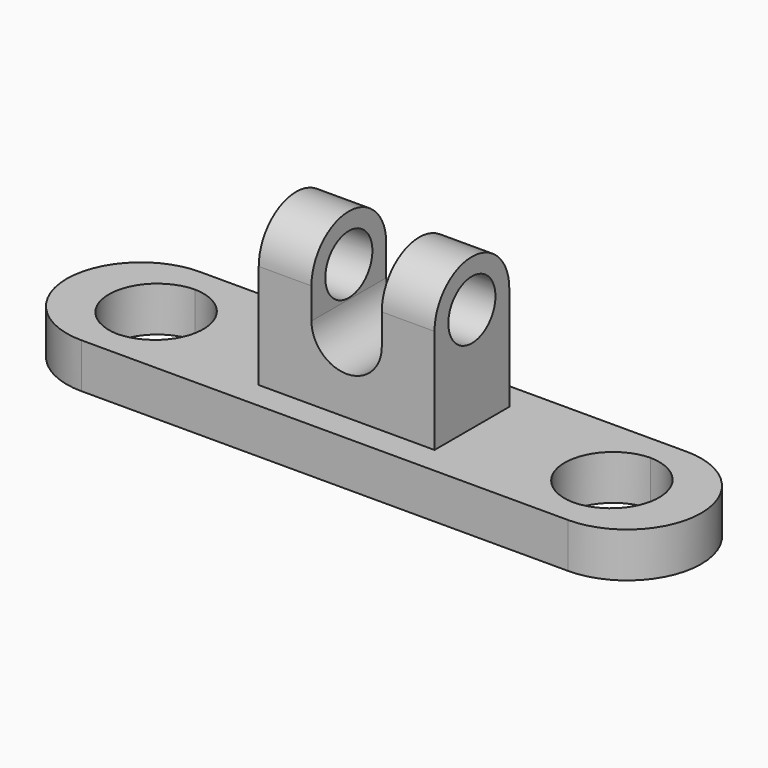
from build123d import *

# Parameters (mm, degrees)
F1_DEPTH  = 12.954
F3_D      = 27.94
F3_DEPTH  = 20.32
F5_DEPTH  = 25.4
F8_DEPTH  = 34.919414
F9_R      = 8.513263
F10_DEPTH = 117.073686


with BuildPart() as f1:
    # F0 (on Top) → F1 (new body)
    with BuildSketch(Plane.XY):
        with BuildLine():
            Line((70.253901, 21.234231), (70.253901, 21.401851))
            Line((70.253901, 21.401851), (-70.253901, 21.401851))
            Line((-70.253901, 21.401851), (-70.253901, 21.418785))
            ThreePointArc((-70.253901, 21.418785), (-91.672686, 0), (-70.253901, -21.418785))
            Line((-70.253901, -21.418785), (-70.253901, -21.401851))
            Line((-70.253901, -21.401851), (70.253901, -21.401851))
            Line((70.253901, -21.401851), (70.253901, -21.234231))
            ThreePointArc((70.253901, -21.234231), (91.488132, 0), (70.253901, 21.234231))
        make_face()
    extrude(amount=F1_DEPTH)

    # F3
    with Locations(Plane(origin=(0, 0, 0), x_dir=(1, 0, 0), z_dir=(0, 0, -1))):
        with Locations((-65.522589, 0), (66.181116, 0)):
            Hole(F3_D / 2, depth=F3_DEPTH)

    # F4 (on Right) → F5 (join)
    with BuildSketch(Plane.YZ):
        with BuildLine():
            Line((-13.499629, 7.572964), (13.499629, 7.572964))
            Line((13.499629, 7.572964), (13.499629, 43.132961))
            ThreePointArc((13.499629, 43.132961), (0, 56.63259), (-13.499629, 43.132961))
            Line((-13.499629, 43.132961), (-13.499629, 7.572964))
        make_face()
    extrude(amount=F5_DEPTH)

    # F6: F1 across face


with BuildPart() as f1_1:
    add(f1.part)
    add(f1.part.mirror(Plane(origin=(0, 0, 33.456079), x_dir=(0, 1, 0), z_dir=(-1, 0, 0))))

    # F7 (on face) → F8 (cut, through all)
    with BuildSketch(Plane.XZ.offset(13.499629)):
        Polygon((-10.16, 59.448242), (-10.16, 43.132961), (-10.16, 34.201402), (10.16, 34.201402), (10.16, 43.132961), (10.16, 59.448242), align=None)
        with BuildLine():
            Line((10.16, 34.201402), (-10.16, 34.201402))
            ThreePointArc((-10.16, 34.201402), (0, 24.041402), (10.16, 34.201402))
        make_face()
    extrude(amount=-F8_DEPTH, mode=Mode.SUBTRACT)

    # F9 (on face) → F10 (cut, through all)
    with BuildSketch(Plane(origin=(-25.4, 0, 0), x_dir=(0, -1, 0), z_dir=(-1, 0, 0))):
        with Locations((0, 43.132961)):
            Circle(F9_R)
    extrude(amount=-F10_DEPTH, mode=Mode.SUBTRACT)


solid = f1_1.part
